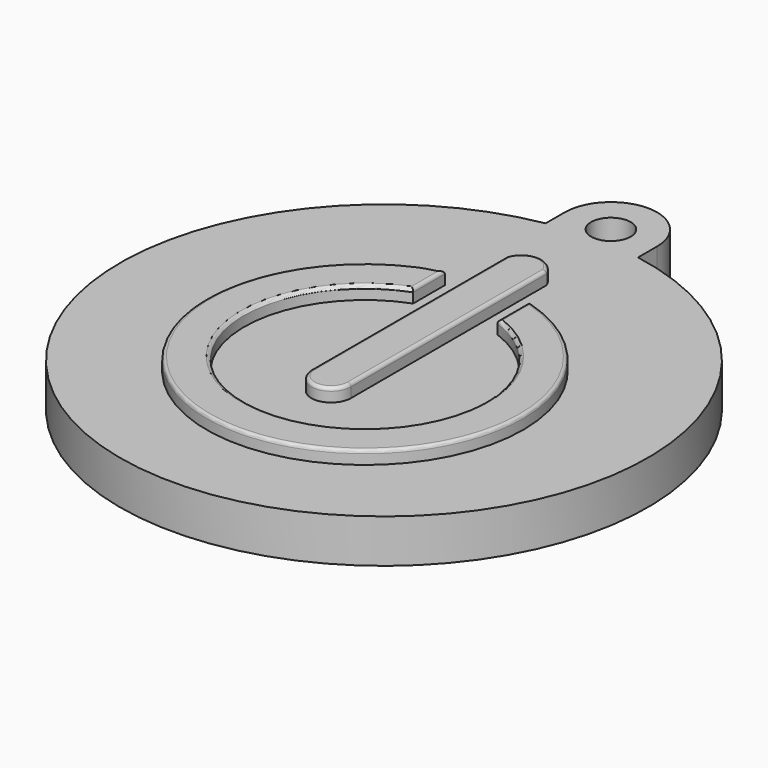
from build123d import *

# Parameters (mm, degrees)
EXTRUDE_DEPTH = 3.3
SKETCH001_R   = 1.5
POCKET_DEPTH  = 3.301
PAD_DEPTH     = 1
FILLET_R      = 0.25


with BuildPart() as part:
    # Sketch → Extrude (new body)
    with BuildSketch(Plane.XY):
        with BuildLine():
            ThreePointArc((3.5, 21.5), (0, 25), (-3.5, 21.5))
            Line((-3.5, 21.5), (-3.5, 19.691369))
            ThreePointArc((-3.5, 19.691369), (0, -20), (3.5, 19.691369))
            Line((3.5, 19.691369), (3.5, 21.5))
        make_face()
    extrude(amount=EXTRUDE_DEPTH)

    # Sketch001 (on Face6 of Extrude) → Pocket (cut, through all)
    with BuildSketch(Plane.XY.offset(3.3)):
        with Locations((0, 21.5)):
            Circle(SKETCH001_R)
    extrude(amount=-POCKET_DEPTH, mode=Mode.SUBTRACT)

    # Sketch002 (on Face1 of CopyClone) → Pad (join)
    with BuildSketch(Plane.XY.offset(3.3)):
        with BuildLine():
            Line((-1.5, 13.5), (-1.5, -5))
            ThreePointArc((-1.5, -5), (0, -6.5), (1.5, -5))
            Line((1.5, 13.5), (1.5, -5))
            ThreePointArc((1.5, 13.5), (0, 14.581139), (-1.5, 13.5))
        make_face()
        with BuildLine():
            Line((-3.2, 9.765466), (-3.2, 6.765466))
            ThreePointArc((-3.2, 6.765466), (0, -10.943698), (3.2, 6.765466))
            Line((3.2, 9.765466), (3.2, 6.765466))
            ThreePointArc((-3.2, 9.765466), (0, -13.8), (3.2, 9.765466))
        make_face()
    extrude(amount=PAD_DEPTH)

    # Fillet
    fillet_edges = [part.edges().sort_by_distance(p)[0] for p in [
        (0, 14.581139, 4.3),
        (1.5, 4.25, 4.3),
        (0, -6.5, 4.3),
        (-1.5, 4.25, 4.3),
        (-3.2, 8.265466, 4.3),
        (0, -10.943698, 4.3),
        (3.2, 8.265466, 4.3),
        (0, -13.8, 4.3),
    ]]
    fillet(fillet_edges, radius=FILLET_R)


solid = part.part
